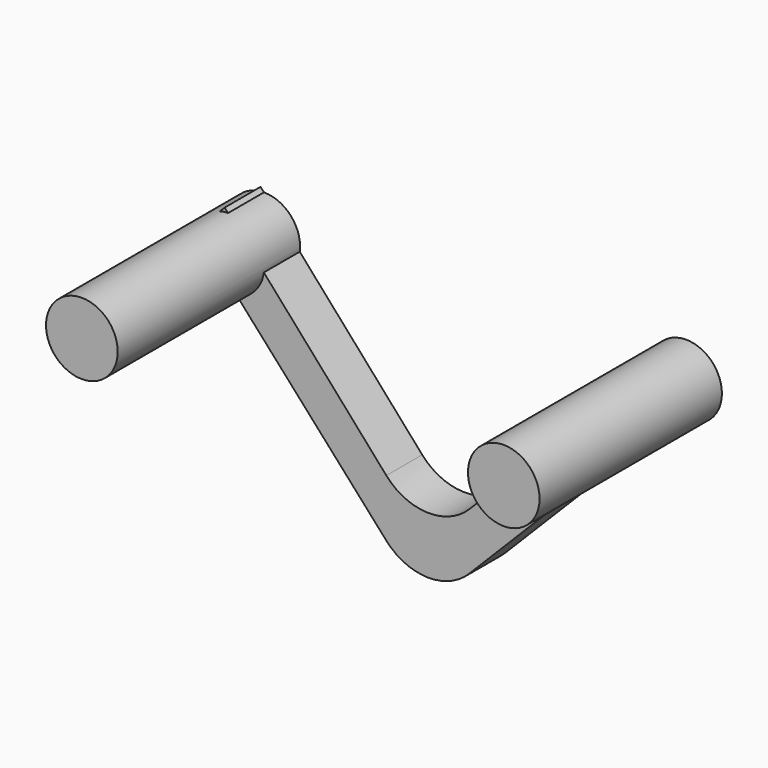
from build123d import *

# Parameters (mm, degrees)
F2_DEPTH = 5
F1_R     = 3.99228
F1_R_2   = 3.9878
F3_DEPTH = 25.4


with BuildPart() as f2:
    # F0 (on Front) → F2 (new body)
    with BuildSketch(Plane.XZ):
        with BuildLine():
            Line((-4.496156, 21.979624), (-22.507101, 42.406671))
            Line((-22.507101, 42.406671), (-25.651595, 39.227999))
            Line((-25.651595, 39.227999), (-4.500286, 15.595549))
            ThreePointArc((-4.500286, 15.595549), (0.072805, 13.482397), (4.745683, 15.364625))
            Line((4.745683, 15.364625), (28.352467, 39.227999))
            Line((28.352467, 39.227999), (25.251873, 42.406671))
            Line((25.251873, 42.406671), (4.781141, 21.713435))
            ThreePointArc((4.781141, 21.713435), (0.084686, 19.83184), (-4.496156, 21.979624))
        make_face()
    extrude(amount=F2_DEPTH)

    # F1 (on face) → F3 (join)
    with BuildSketch(Plane.XZ):
        with Locations((-22.101736, 37.992299)):
            Circle(F1_R)
        with Locations((24.905413, 38.852181)):
            Circle(F1_R_2)
    extrude(amount=F3_DEPTH)


solid = f2.part
